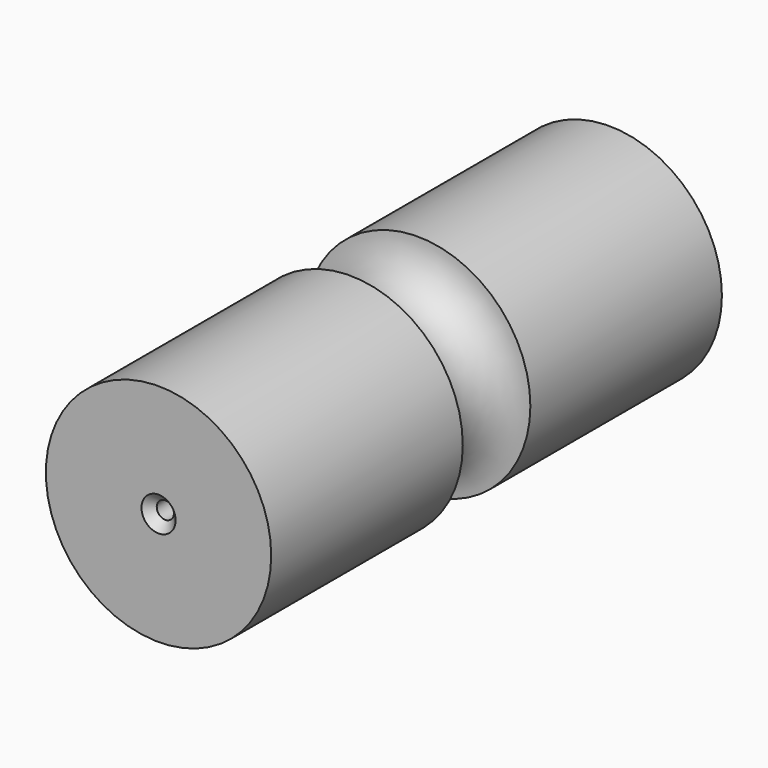
from build123d import *

# Parameters (mm, degrees)
F3_D           = 15.5
F3_CSINK_D     = 30.8
F3_CSINK_ANGLE = 90


with BuildPart() as f1:
    # F0 (on Top) → F1 (revolve)
    with BuildSketch(Plane.XY):
        with BuildLine():
            Line((101.6, 254), (0, 254))
            Line((0, 254), (0, -254))
            Line((0, -254), (101.6, -254))
            Line((101.6, -254), (101.6, -38.1))
            ThreePointArc((101.6, -38.1), (63.5, 0), (101.6, 38.1))
            Line((101.6, 38.1), (101.6, 254))
        make_face()
    revolve(axis=Axis((0, 0, 0), (0, -1, 0)))

    # F3 (through all)
    with Locations(Plane.XZ.offset(254)):
        with Locations((0, 0)):
            CounterSinkHole(F3_D / 2, F3_CSINK_D / 2, counter_sink_angle=F3_CSINK_ANGLE)


solid = f1.part
